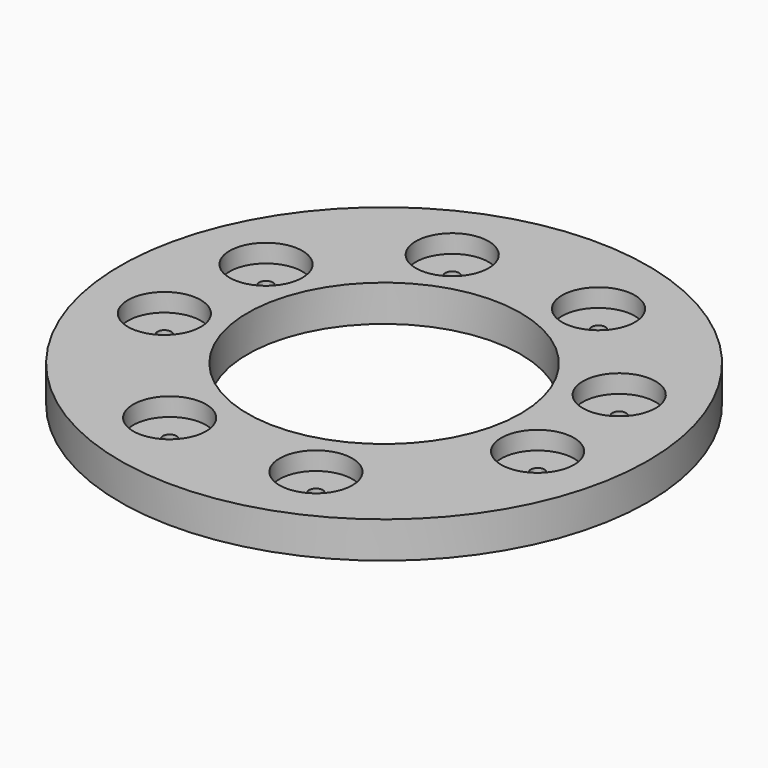
from build123d import *

# Parameters (mm, degrees)
CYLINDER799_R               = 1.5
CYLINDER799_DEPTH           = 100
CYLINDER799_PLACEMENT_ANGLE = 100
CYLINDER797_R               = 1.5
CYLINDER797_DEPTH           = 100
CYLINDER797_PLACEMENT_ANGLE = 135
CYLINDER801_R               = 1.5
CYLINDER801_DEPTH           = 100
CYLINDER803_R               = 1.5
CYLINDER803_DEPTH           = 100
CYLINDER803_PLACEMENT_ANGLE = 225
CYLINDER796_R               = 1.5
CYLINDER796_DEPTH           = 100
CYLINDER800_R               = 1.5
CYLINDER800_DEPTH           = 100
CYLINDER800_PLACEMENT_ANGLE = 55
CYLINDER798_R               = 1.5
CYLINDER798_DEPTH           = 100
CYLINDER802_R               = 1.5
CYLINDER802_DEPTH           = 100
CYLINDER802_PLACEMENT_ANGLE = 45
CYLINDER766_R               = 8
CYLINDER766_DEPTH           = 20
CYLINDER766_PLACEMENT_ANGLE = 100
CYLINDER765_R               = 8
CYLINDER765_DEPTH           = 20
CYLINDER765_PLACEMENT_ANGLE = 135
CYLINDER767_R               = 8
CYLINDER767_DEPTH           = 20
CYLINDER762_R               = 8
CYLINDER762_DEPTH           = 20
CYLINDER762_PLACEMENT_ANGLE = 225
CYLINDER769_R               = 8
CYLINDER769_DEPTH           = 20
CYLINDER764_R               = 8
CYLINDER764_DEPTH           = 20
CYLINDER764_PLACEMENT_ANGLE = 55
CYLINDER763_R               = 8
CYLINDER763_DEPTH           = 20
CYLINDER768_R               = 8
CYLINDER768_DEPTH           = 20
CYLINDER768_PLACEMENT_ANGLE = 45
TUBE082_R                   = 58
TUBE082_R_2                 = 30
TUBE082_DEPTH               = 8


with BuildPart() as obj1:
    # Cylinder799 → Cylinder799 (new body)
    with BuildSketch(Plane.XY):
        Circle(CYLINDER799_R)
    extrude(amount=CYLINDER799_DEPTH)


with BuildPart() as obj1_1:
    # Cylinder799 placement: moved
    add(obj1.part.moved(Location((41.004432, -9.090464, 0))).rotate(Axis((41.004432, -9.090464, 0), (0, 0, 1)), CYLINDER799_PLACEMENT_ANGLE))


with BuildPart() as obj2:
    # Cylinder797 → Cylinder797 (new body)
    with BuildSketch(Plane.XY):
        Circle(CYLINDER797_R)
    extrude(amount=CYLINDER797_DEPTH)


with BuildPart() as obj2_1:
    # Cylinder797 placement: moved
    add(obj2.part.moved(Location((38.80294, 16.072704, 0))).rotate(Axis((38.80294, 16.072704, 0), (0, 0, 1)), CYLINDER797_PLACEMENT_ANGLE))


with BuildPart() as obj3:
    # Cylinder801 → Cylinder801 (new body)
    with BuildSketch(Plane(origin=(16.072704, 38.80294, 0), x_dir=(-1, 0, 0), z_dir=(0, 0, 1))):
        Circle(CYLINDER801_R)
    extrude(amount=CYLINDER801_DEPTH)


with BuildPart() as obj4:
    # Cylinder803 → Cylinder803 (new body)
    with BuildSketch(Plane.XY):
        Circle(CYLINDER803_R)
    extrude(amount=CYLINDER803_DEPTH)


with BuildPart() as obj4_1:
    # Cylinder803 placement: moved
    add(obj4.part.moved(Location((-16.072704, 38.80294, 0))).rotate(Axis((-16.072704, 38.80294, 0), (0, 0, 1)), CYLINDER803_PLACEMENT_ANGLE))


with BuildPart() as obj5:
    # Cylinder796 → Cylinder796 (new body)
    with BuildSketch(Plane(origin=(-38.80294, 16.072704, 0), x_dir=(0, -1, 0), z_dir=(0, 0, 1))):
        Circle(CYLINDER796_R)
    extrude(amount=CYLINDER796_DEPTH)


with BuildPart() as obj6:
    # Cylinder800 → Cylinder800 (new body)
    with BuildSketch(Plane.XY):
        Circle(CYLINDER800_R)
    extrude(amount=CYLINDER800_DEPTH)


with BuildPart() as obj6_1:
    # Cylinder800 placement: moved
    add(obj6.part.moved(Location((-41.004432, -9.090464, 0))).rotate(Axis((-41.004432, -9.090464, 0), (0, 0, -1)), CYLINDER800_PLACEMENT_ANGLE))


with BuildPart() as obj7:
    # Cylinder798 → Cylinder798 (new body)
    with BuildSketch(Plane(origin=(-16.072704, -38.80294, 0), x_dir=(1, 0, 0), z_dir=(0, 0, 1))):
        Circle(CYLINDER798_R)
    extrude(amount=CYLINDER798_DEPTH)


with BuildPart() as compound716:
    # Cylinder802 → Cylinder802 (new body)
    with BuildSketch(Plane.XY):
        Circle(CYLINDER802_R)
    extrude(amount=CYLINDER802_DEPTH)


with BuildPart() as compound716_1:
    # Cylinder802 placement: moved
    add(compound716.part.moved(Location((16.072704, -38.80294, 0))).rotate(Axis((16.072704, -38.80294, 0), (0, 0, 1)), CYLINDER802_PLACEMENT_ANGLE))

    # Compound716: union obj1, obj2, obj3, obj4, obj5, obj6, obj7
    add(obj1_1.part)
    add(obj2_1.part)
    add(obj3.part)
    add(obj4_1.part)
    add(obj5.part)
    add(obj6_1.part)
    add(obj7.part)


with BuildPart() as obj8:
    # Cylinder766 → Cylinder766 (new body)
    with BuildSketch(Plane.XY):
        Circle(CYLINDER766_R)
    extrude(amount=CYLINDER766_DEPTH)


with BuildPart() as obj8_1:
    # Cylinder766 placement: moved
    add(obj8.part.moved(Location((41.004432, -9.090464, 0))).rotate(Axis((41.004432, -9.090464, 0), (0, 0, 1)), CYLINDER766_PLACEMENT_ANGLE))


with BuildPart() as obj9:
    # Cylinder765 → Cylinder765 (new body)
    with BuildSketch(Plane.XY):
        Circle(CYLINDER765_R)
    extrude(amount=CYLINDER765_DEPTH)


with BuildPart() as obj9_1:
    # Cylinder765 placement: moved
    add(obj9.part.moved(Location((38.80294, 16.072704, 0))).rotate(Axis((38.80294, 16.072704, 0), (0, 0, 1)), CYLINDER765_PLACEMENT_ANGLE))


with BuildPart() as obj10:
    # Cylinder767 → Cylinder767 (new body)
    with BuildSketch(Plane(origin=(16.072704, 38.80294, 0), x_dir=(-1, 0, 0), z_dir=(0, 0, 1))):
        Circle(CYLINDER767_R)
    extrude(amount=CYLINDER767_DEPTH)


with BuildPart() as obj11:
    # Cylinder762 → Cylinder762 (new body)
    with BuildSketch(Plane.XY):
        Circle(CYLINDER762_R)
    extrude(amount=CYLINDER762_DEPTH)


with BuildPart() as obj11_1:
    # Cylinder762 placement: moved
    add(obj11.part.moved(Location((-16.072704, 38.80294, 0))).rotate(Axis((-16.072704, 38.80294, 0), (0, 0, 1)), CYLINDER762_PLACEMENT_ANGLE))


with BuildPart() as obj12:
    # Cylinder769 → Cylinder769 (new body)
    with BuildSketch(Plane(origin=(-38.80294, 16.072704, 0), x_dir=(0, -1, 0), z_dir=(0, 0, 1))):
        Circle(CYLINDER769_R)
    extrude(amount=CYLINDER769_DEPTH)


with BuildPart() as obj13:
    # Cylinder764 → Cylinder764 (new body)
    with BuildSketch(Plane.XY):
        Circle(CYLINDER764_R)
    extrude(amount=CYLINDER764_DEPTH)


with BuildPart() as obj13_1:
    # Cylinder764 placement: moved
    add(obj13.part.moved(Location((-41.004432, -9.090464, 0))).rotate(Axis((-41.004432, -9.090464, 0), (0, 0, -1)), CYLINDER764_PLACEMENT_ANGLE))


with BuildPart() as obj14:
    # Cylinder763 → Cylinder763 (new body)
    with BuildSketch(Plane(origin=(-16.072704, -38.80294, 0), x_dir=(1, 0, 0), z_dir=(0, 0, 1))):
        Circle(CYLINDER763_R)
    extrude(amount=CYLINDER763_DEPTH)


with BuildPart() as compound710:
    # Cylinder768 → Cylinder768 (new body)
    with BuildSketch(Plane.XY):
        Circle(CYLINDER768_R)
    extrude(amount=CYLINDER768_DEPTH)


with BuildPart() as compound710_1:
    # Cylinder768 placement: moved
    add(compound710.part.moved(Location((16.072704, -38.80294, 0))).rotate(Axis((16.072704, -38.80294, 0), (0, 0, 1)), CYLINDER768_PLACEMENT_ANGLE))

    # Compound710: union obj8, obj9, obj10, obj11, obj12, obj13, obj14
    add(obj8_1.part)
    add(obj9_1.part)
    add(obj10.part)
    add(obj11_1.part)
    add(obj12.part)
    add(obj13_1.part)
    add(obj14.part)


with BuildPart() as compound710_2:
    # Compound710 placement: moved
    add(compound710_1.part.moved(Location((0, 0, 56))))


with BuildPart() as cut333:
    # Tube082 → Tube082 (new body)
    with BuildSketch(Plane.XY.offset(52)):
        Circle(TUBE082_R)
        Circle(TUBE082_R_2, mode=Mode.SUBTRACT)
    extrude(amount=TUBE082_DEPTH)

    # Cut332: cut Compound710
    add(compound710_2.part, mode=Mode.SUBTRACT)

    # Cut333: cut Compound716
    add(compound716_1.part, mode=Mode.SUBTRACT)


solid = cut333.part
